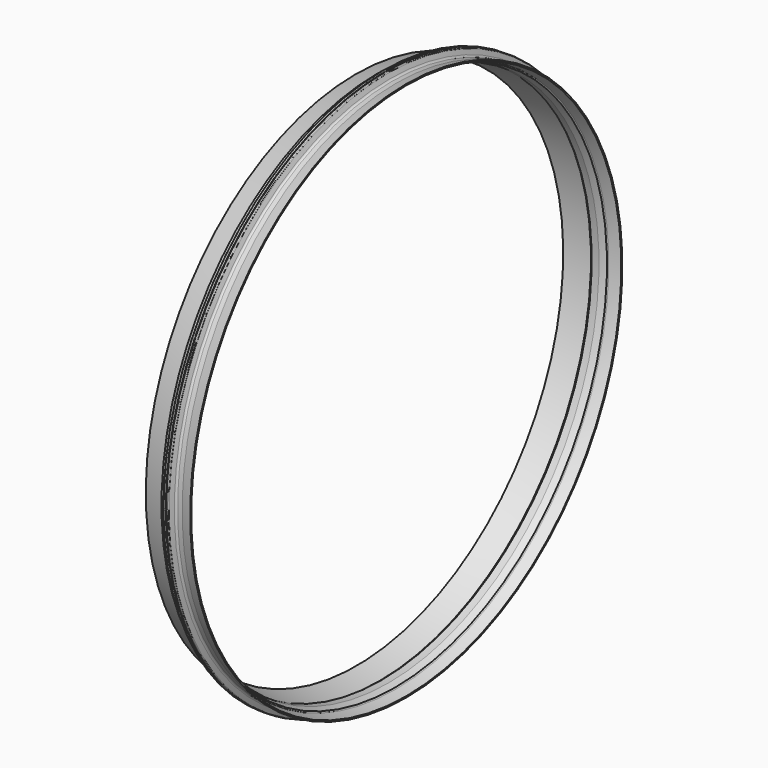
from build123d import *

# Parameters (mm, degrees)
F4_W     = 3.175
F4_H     = 14.986
F5_DEPTH = 1.5875
F6_COUNT = 12


with BuildPart() as f3:
    # F1 (on Front) → F3 (revolve)
    with BuildSketch(Plane.XZ):
        with BuildLine():
            Line((-1.27, 670.1712923991), (-1.27, 687.959))
            Line((-1.27, 687.959), (-6.985, 687.959))
            ThreePointArc((-6.985, 687.959), (-7.599512333, 687.4070921284), (-8.0044495466, 686.6871938307))
            Line((-8.0044495466, 686.6871938307), (-10.7570516311, 679.1244817587))
            ThreePointArc((-10.7570516311, 679.1244817587), (-11.4139823231, 678.2194023655), (-12.450316484, 677.799))
            Line((-12.450316484, 677.799), (-19.9923507783, 677.799))
            ThreePointArc((-19.9923507783, 677.799), (-21.9427205133, 672.3978835561), (-26.8005058169, 669.3355441093))
            Line((-26.8005058169, 669.3355441093), (-75.3620451779, 657.8844113618))
            Line((-75.3620451779, 657.8844113618), (-73.1143593928, 648.3525087867))
            Line((-73.1143593928, 648.3525087867), (-14.478, 662.179350853))
            Line((-14.478, 662.179350853), (-14.478, 664.5222732794))
            ThreePointArc((-14.478, 664.5222732794), (-13.865327333, 666.523075405), (-11.9585858888, 667.385))
            Line((-11.9585858888, 667.385), (-6.096, 667.385))
            Line((-6.096, 667.385), (-1.27, 670.1712923991))
        make_face()
    revolve(axis=Axis((11.9134820998, 0, 0), (1, 0, 0)))



with BuildPart() as f3b:
    # F0 (on Front) → F3, piece 2 (revolve)
    with BuildSketch(Plane.XZ):
        with BuildLine():
            Line((4.3064335256, 687.959), (0, 687.959))
            Line((0, 687.959), (0, 672.7062127095))
            ThreePointArc((0, 672.7062127095), (0.2251060727, 671.909061177), (0.8339246269, 671.3474))
            ThreePointArc((0.8339246269, 671.3474), (4.0089246269, 668.1724), (0.8339246269, 664.9974))
            Line((0.8339246269, 664.9974), (-9.0515538982, 664.9974))
            Line((-9.0515538982, 664.9974), (-10.668, 663.3809538982))
            Line((-10.668, 663.3809538982), (-10.668, 659.638))
            Line((-10.668, 659.638), (7.6699643285, 659.638))
            Line((7.6699643285, 659.638), (23.8260356715, 664.5774067014))
            ThreePointArc((23.8260356715, 664.5774067014), (24.0068593491, 666.5972596962), (25.6086289967, 667.8409788441))
            Line((25.6086289967, 667.8409788441), (51.816, 674.5211539476))
            Line((51.816, 674.5211539476), (51.816, 677.7976745418))
            Line((51.816, 677.7976745418), (26.5105648326, 671.3474))
            Line((26.5105648326, 671.3474), (15.065849572, 671.3474))
            ThreePointArc((15.065849572, 671.3474), (12.1418289852, 672.7495346467), (10.291398903, 675.4125754783))
            Line((10.291398903, 675.4125754783), (6.167801097, 686.742067337))
            ThreePointArc((6.167801097, 686.742067337), (5.4183703878, 687.6277705355), (4.3064335256, 687.959))
        make_face()
    revolve(axis=Axis((11.9134820998, 0, 0), (1, 0, 0)))


with BuildPart() as f3_1:
    add(f3.part)

    add(f3b.part)  # F5 merges F3b
    # F4 (on Front) → F5 (join, symmetric)
    with BuildSketch(Plane.XZ):
        with Locations((0.2167733427, 680.593)):
            Rectangle(F4_W, F4_H)
    extrude(amount=F5_DEPTH, both=True)

    # F6: F3 ×12 about axis
    f6_axis = Axis((0, 0, 0), (1, 0, 0))


with BuildPart() as f3_2:
    add(f3_1.part)
    for i in range(1, F6_COUNT):
        add(f3_1.part.rotate(f6_axis, i * 360 / F6_COUNT))


solid = f3_2.part
